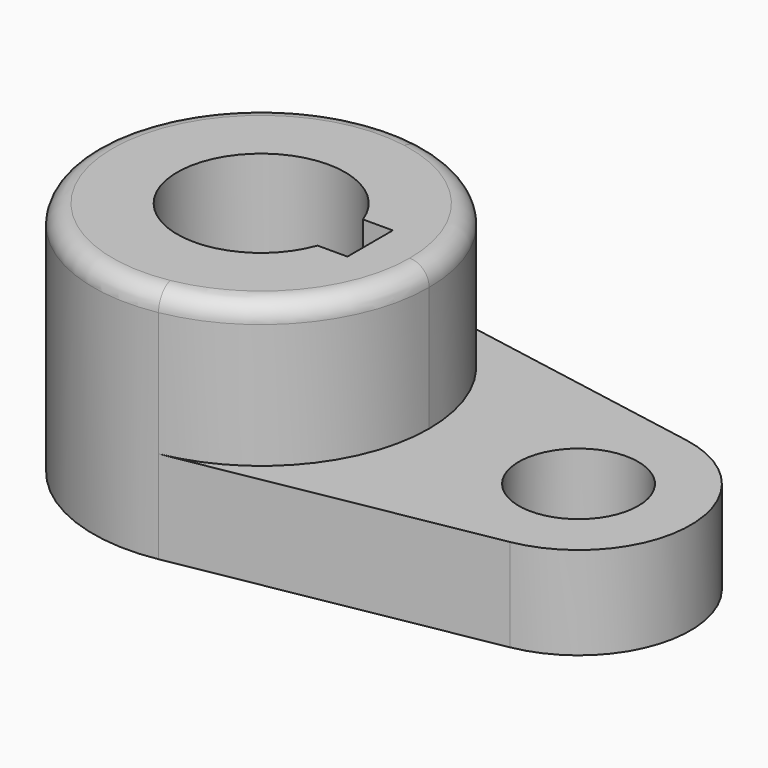
from build123d import *

# Parameters (mm, degrees)
F0_R     = 10.16
F1_DEPTH = 15.7734
F2_DEPTH = 40.2336
F3_R     = 3.302


with BuildPart() as f1:
    # F0 (on Top) → F1 (new body)
    with BuildSketch(Plane.XY):
        with BuildLine():
            ThreePointArc((-48.932353, 28.126541), (-32.058975, 18.336262), (-25.4, 0))
            ThreePointArc((-25.4, 0), (-32.058975, -18.336262), (-48.932353, -28.126541))
            Line((-48.932353, -28.126541), (3.361765, -18.751028))
            ThreePointArc((3.361765, -18.751028), (19.05, 0), (3.361765, 18.751028))
            Line((3.361765, 18.751028), (-48.932353, 28.126541))
        make_face()
        Circle(F0_R, mode=Mode.SUBTRACT)
    extrude(amount=F1_DEPTH)

    # F0 (on Top) → F2 (join)
    with BuildSketch(Plane.XY):
        with BuildLine():
            ThreePointArc((-48.932353, -28.126541), (-32.058975, -18.336262), (-25.4, 0))
            ThreePointArc((-25.4, 0), (-32.058975, 18.336262), (-48.932353, 28.126541))
            ThreePointArc((-48.932353, 28.126541), (-82.55, 0), (-48.932353, -28.126541))
        make_face()
        with BuildLine():
            ThreePointArc((-40.527235, -4.826), (-68.2625, 0), (-40.527235, 4.826))
            Line((-40.527235, 4.826), (-35.4457, 4.826))
            Line((-35.4457, 4.826), (-35.4457, -4.826))
            Line((-35.4457, -4.826), (-40.527235, -4.826))
        make_face(mode=Mode.SUBTRACT)
    extrude(amount=F2_DEPTH)

    # F3
    f3_edges = [f1.edges().sort_by_distance(p)[0] for p in [
        (-59.017647, 28.126541, 40.2336),
    ]]
    fillet(f3_edges, radius=F3_R)


solid = f1.part
